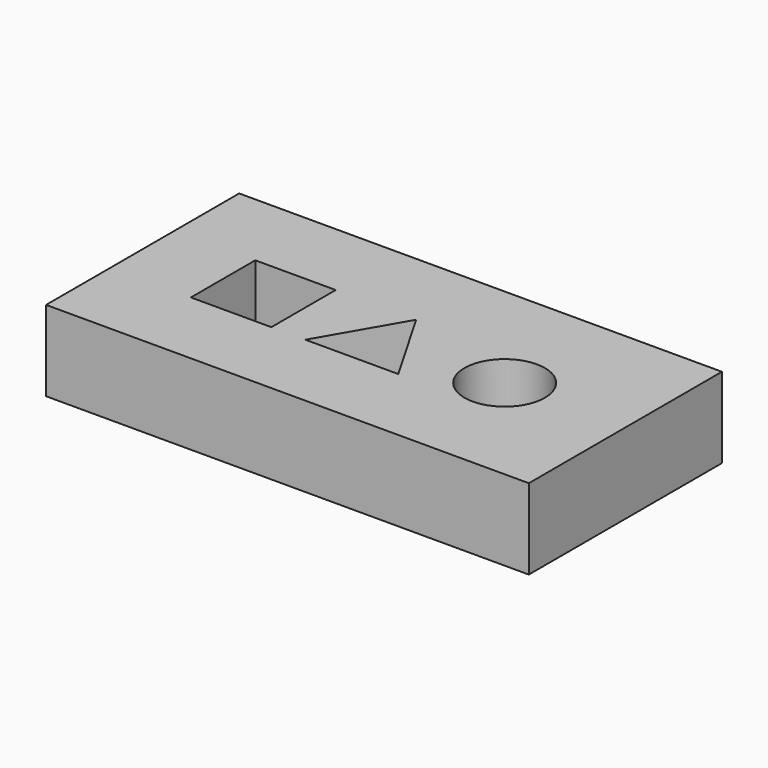
from build123d import *

# Parameters (mm, degrees)
F0_W     = 152.4
F0_H     = 25.4
F1_DEPTH = 76.2
F2_W     = 25.4
F2_H     = 25.4
F2_R     = 12.7
F3_DEPTH = 25.4


with BuildPart() as f1:
    # F0 (on Front) → F1 (new body)
    with BuildSketch(Plane.XZ):
        with Locations((76.2, -12.7)):
            Rectangle(F0_W, F0_H)
    extrude(amount=F1_DEPTH)

    # F2 (on face) → F3 (cut)
    with BuildSketch(Plane.XY):
        with Locations((38.1, -38.1)):
            Rectangle(F2_W, F2_H)
        Polygon((76.2, -25.4), (61.535303, -50.8), (76.2, -50.8), (76.2, -38.1), align=None)
        Polygon((76.2, -38.1), (76.2, -50.8), (90.864697, -50.8), (76.2, -25.4), align=None)
        with Locations((114.3, -38.1)):
            Circle(F2_R)
    extrude(amount=-F3_DEPTH, mode=Mode.SUBTRACT)


solid = f1.part
